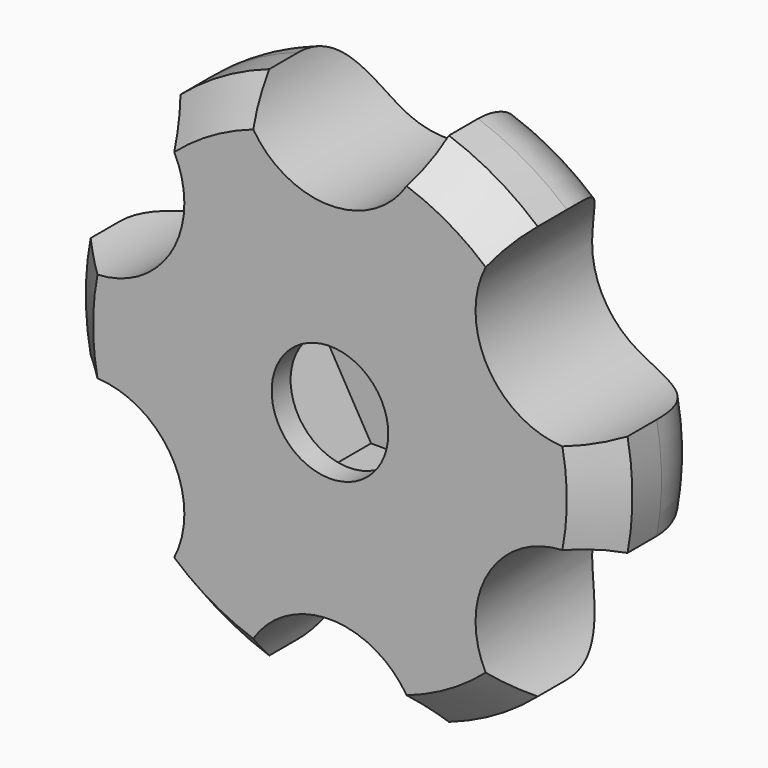
from build123d import *

# Parameters (mm, degrees)
SKETCH016_R             = 5
POCKET002_DEPTH         = 8.001
POCKET003_DEPTH         = 5.2
BODY011_PLACEMENT_ANGLE = 270


with BuildPart() as part:
    # Sketch014 → Revolution (revolve)
    with BuildSketch(Plane.XZ):
        with BuildLine():
            ThreePointArc((15, -4), (13.828427, -1.171573), (11, 0))
            Line((3.2, 0), (11, 0))
            Line((3.2, 0), (3.2, -8))
            Line((3.2, -8), (13, -8))
            Line((13, -8), (15, -6))
            Line((15, -6), (15, -4))
        make_face()
    revolve(axis=Axis((0, 0, 0), (0, 0, 1)))

    # Sketch016 → Pocket002 (cut, through all)
    with BuildSketch(Plane.XY):
        with Locations((0, 15)):
            Circle(SKETCH016_R)
        with Locations((12.990381, 7.5)):
            Circle(SKETCH016_R)
        with Locations((12.990381, -7.5)):
            Circle(SKETCH016_R)
        with Locations((0, -15)):
            Circle(SKETCH016_R)
        with Locations((-12.990381, -7.5)):
            Circle(SKETCH016_R)
        with Locations((-12.990381, 7.5)):
            Circle(SKETCH016_R)
    extrude(amount=-POCKET002_DEPTH, mode=Mode.SUBTRACT)

    # Sketch015 → Pocket003 (cut)
    with BuildSketch(Plane.XY.offset(-1.5)):
        Polygon((5.888973, 0), (2.944486, 5.1), (-2.944486, 5.1), (-5.888973, 0), (-2.944486, -5.1), (2.944486, -5.1), align=None)
    extrude(amount=-POCKET003_DEPTH, mode=Mode.SUBTRACT)


with BuildPart() as part_1:
    # Body011 placement: moved
    add(part.part.moved(Location((22.5, -70, 0))).rotate(Axis((22.5, -70, 0), (1, 0, 0)), BODY011_PLACEMENT_ANGLE))


with BuildPart() as part_2:
    # Clone006 placement: moved
    add(part_1.part.moved(Location((-45, 0, 0))))


solid = part_2.part
